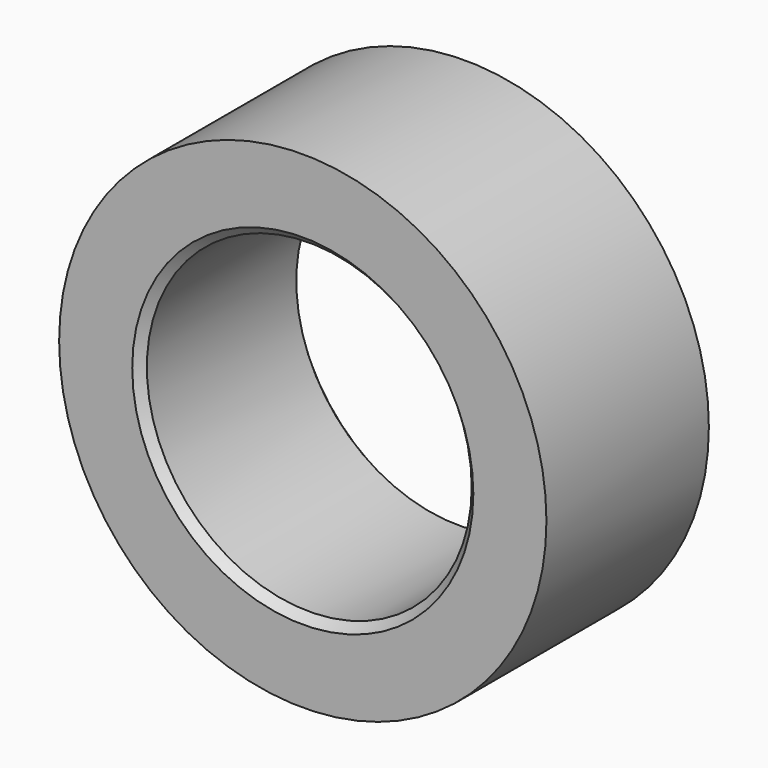
from build123d import *

# Parameters (mm, degrees)
F0_R     = 60
F0_R_2   = 40
F1_DEPTH = 25
F2_SIZE  = 2


with BuildPart() as f1:
    # F0 (on Front) → F1 (new body, symmetric)
    with BuildSketch(Plane.XZ):
        Circle(F0_R)
        Circle(F0_R_2, mode=Mode.SUBTRACT)
    extrude(amount=F1_DEPTH, both=True)

    # F2
    f2_edges = [f1.edges().sort_by_distance(p)[0] for p in [
        (-40, -25, 0),
        (40, 0, 0),
        (-40, 25, 0),
    ]]
    chamfer(f2_edges, length=F2_SIZE)


solid = f1.part
